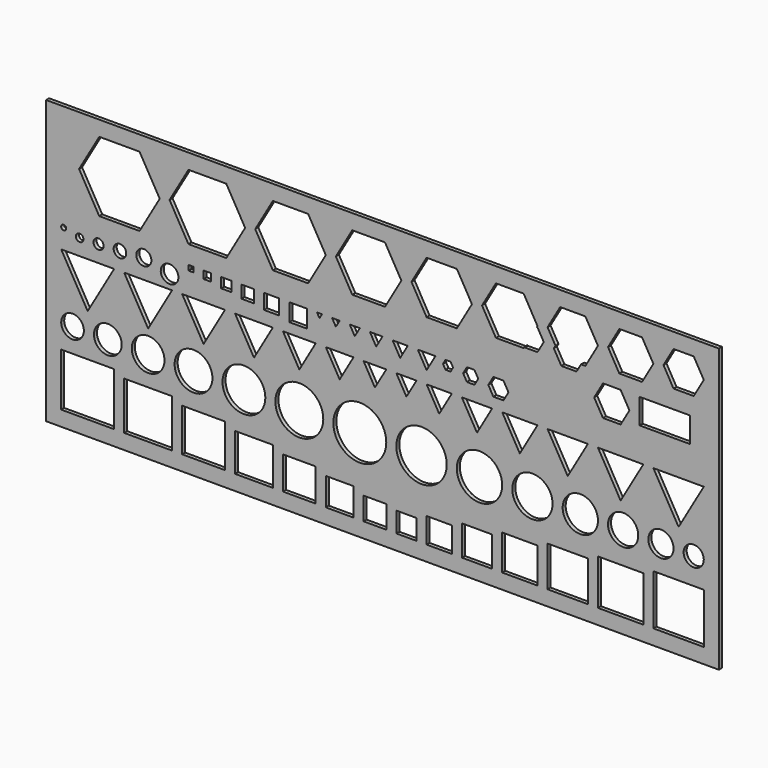
from build123d import *

# Parameters (mm, degrees)
F0_R     = 1
F0_W     = 21
F0_H     = 21
F0_W_2   = 19
F0_H_2   = 19
F0_W_3   = 17
F0_H_3   = 17
F0_W_4   = 15
F0_H_4   = 15
F0_W_5   = 13
F0_H_5   = 13
F0_W_6   = 11
F0_H_6   = 11
F0_W_7   = 9
F0_H_7   = 9
F0_R_2   = 4.5
F0_R_3   = 5.5
F0_R_4   = 6.5
F0_R_5   = 7.5
F0_R_6   = 8.5
F0_R_7   = 9.5
F0_R_8   = 10.5
F0_W_8   = 8
F0_H_8   = 8
F0_W_9   = 10
F0_H_9   = 10
F0_W_10  = 12
F0_H_10  = 12
F0_W_11  = 14
F0_H_11  = 14
F0_W_12  = 16
F0_H_12  = 16
F0_W_13  = 18
F0_H_13  = 18
F0_W_14  = 20
F0_H_14  = 20
F0_R_9   = 10
F0_R_10  = 9
F0_R_11  = 8
F0_R_12  = 7
F0_R_13  = 6
F0_R_14  = 5
F0_R_15  = 4
F0_W_15  = 2
F0_H_15  = 2
F0_W_16  = 3
F0_H_16  = 3
F0_W_17  = 6
F0_H_17  = 6
F0_W_18  = 7
F0_H_18  = 7
F0_W_19  = 4
F0_H_19  = 4
F0_W_20  = 5
F0_H_20  = 5
F1_DEPTH = 1.5


with BuildPart() as f1:
    # F0 (on Front) → F1 (new body)
    with BuildSketch(Plane.XZ):
        with Locations((-132.000002, 63.920423)):
            Circle(F0_R)
        Polygon((128, -6), (128, 66.995329), (128, 106.231951), (-139, 106.231951), (-139, -6), align=None)
        with Locations((-122.5, 10.5)):
            Rectangle(F0_W, F0_H, mode=Mode.SUBTRACT)
        with Locations((-98.5, 9.5)):
            Rectangle(F0_W_2, F0_H_2, mode=Mode.SUBTRACT)
        with Locations((-76.5, 8.5)):
            Rectangle(F0_W_3, F0_H_3, mode=Mode.SUBTRACT)
        with Locations((-56.5, 7.5)):
            Rectangle(F0_W_4, F0_H_4, mode=Mode.SUBTRACT)
        with Locations((-38.5, 6.5)):
            Rectangle(F0_W_5, F0_H_5, mode=Mode.SUBTRACT)
        with Locations((-22.5, 5.5)):
            Rectangle(F0_W_6, F0_H_6, mode=Mode.SUBTRACT)
        with Locations((-8.5, 4.5)):
            Rectangle(F0_W_7, F0_H_7, mode=Mode.SUBTRACT)
        with Locations((-128.5, 30.5)):
            Circle(F0_R_2, mode=Mode.SUBTRACT)
        with Locations((-114.5, 30.5)):
            Circle(F0_R_3, mode=Mode.SUBTRACT)
        with Locations((-98.5, 30.5)):
            Circle(F0_R_4, mode=Mode.SUBTRACT)
        with Locations((-80.5, 30.5)):
            Circle(F0_R_5, mode=Mode.SUBTRACT)
        Polygon((-122.5, 37.811581), (-133, 55.998115), (-112, 55.998115), align=None, mode=Mode.SUBTRACT)
        Polygon((-98.5, 39.543632), (-108, 55.998115), (-89, 55.998115), align=None, mode=Mode.SUBTRACT)
        Polygon((-76.5, 41.275683), (-85, 55.998115), (-68, 55.998115), align=None, mode=Mode.SUBTRACT)
        with Locations((-60.5, 30.5)):
            Circle(F0_R_6, mode=Mode.SUBTRACT)
        with Locations((-38.5, 30.5)):
            Circle(F0_R_7, mode=Mode.SUBTRACT)
        with Locations((-14.5, 30.5)):
            Circle(F0_R_8, mode=Mode.SUBTRACT)
        Polygon((-56.5, 43.007733), (-64, 55.998115), (-49, 55.998115), align=None, mode=Mode.SUBTRACT)
        with Locations((4, 4)):
            Rectangle(F0_W_8, F0_H_8, mode=Mode.SUBTRACT)
        with Locations((17, 5)):
            Rectangle(F0_W_9, F0_H_9, mode=Mode.SUBTRACT)
        with Locations((32, 6)):
            Rectangle(F0_W_10, F0_H_10, mode=Mode.SUBTRACT)
        with Locations((49, 7)):
            Rectangle(F0_W_11, F0_H_11, mode=Mode.SUBTRACT)
        with Locations((68, 8)):
            Rectangle(F0_W_12, F0_H_12, mode=Mode.SUBTRACT)
        with Locations((89, 9)):
            Rectangle(F0_W_13, F0_H_13, mode=Mode.SUBTRACT)
        with Locations((112, 10)):
            Rectangle(F0_W_14, F0_H_14, mode=Mode.SUBTRACT)
        with Locations((10, 30.5)):
            Circle(F0_R_9, mode=Mode.SUBTRACT)
        with Locations((33, 30.5)):
            Circle(F0_R_10, mode=Mode.SUBTRACT)
        with Locations((54, 30.5)):
            Circle(F0_R_11, mode=Mode.SUBTRACT)
        Polygon((49, 43.873759), (42, 55.998115), (56, 55.998115), align=None, mode=Mode.SUBTRACT)
        with Locations((73, 30.5)):
            Circle(F0_R_12, mode=Mode.SUBTRACT)
        with Locations((90, 30.5)):
            Circle(F0_R_13, mode=Mode.SUBTRACT)
        with Locations((105, 30.5)):
            Circle(F0_R_14, mode=Mode.SUBTRACT)
        with Locations((118, 30.5)):
            Circle(F0_R_15, mode=Mode.SUBTRACT)
        Polygon((68, 42.141708), (60, 55.998115), (76, 55.998115), align=None, mode=Mode.SUBTRACT)
        Polygon((89, 40.409657), (80, 55.998115), (98, 55.998115), align=None, mode=Mode.SUBTRACT)
        Polygon((112, 38.677606), (102, 55.998115), (122, 55.998115), align=None, mode=Mode.SUBTRACT)
        with Locations((-132.000002, 63.920423)):
            Circle(F0_R, mode=Mode.SUBTRACT)
        with BuildLine():
            ThreePointArc((-124.175447, 62.420423), (-126.736107, 61.359763), (-125.675447, 63.920423))
            ThreePointArc((-125.675447, 63.920423), (-124.614787, 63.481083), (-124.175447, 62.420423))
        make_face(mode=Mode.SUBTRACT)
        with BuildLine():
            ThreePointArc((-116.179247, 62.659131), (-118.848469, 60.774419), (-119.731389, 63.920423))
            ThreePointArc((-119.731389, 63.920423), (-118.179247, 64.659131), (-116.627105, 63.920423))
            ThreePointArc((-116.627105, 63.920423), (-116.294534, 63.328354), (-116.179247, 62.659131))
        make_face(mode=Mode.SUBTRACT)
        with BuildLine():
            ThreePointArc((-107.185059, 62.973398), (-110.167647, 60.520419), (-111.998745, 63.920423))
            ThreePointArc((-111.998745, 63.920423), (-109.685059, 65.473398), (-107.371372, 63.920423))
            ThreePointArc((-107.371372, 63.920423), (-107.232079, 63.455987), (-107.185059, 62.973398))
        make_face(mode=Mode.SUBTRACT)
        with BuildLine():
            ThreePointArc((-97.218074, 63.764731), (-100.295946, 60.765742), (-103.214031, 63.920423))
            ThreePointArc((-103.214031, 63.920423), (-100.218074, 66.764731), (-97.222117, 63.920423))
            ThreePointArc((-97.222117, 63.920423), (-97.219085, 63.842603), (-97.218074, 63.764731))
        make_face(mode=Mode.SUBTRACT)
        with BuildLine():
            ThreePointArc((-86.498777, 61.353099), (-91.399506, 58.145615), (-92.377611, 63.920423))
            ThreePointArc((-92.377611, 63.920423), (-89.998777, 64.853099), (-87.619943, 63.920423))
            ThreePointArc((-87.619943, 63.920423), (-86.791292, 62.753828), (-86.498777, 61.353099))
        make_face(mode=Mode.SUBTRACT)
        with Locations((-81.498777, 65.995329)):
            Rectangle(F0_W_15, F0_H_15, mode=Mode.SUBTRACT)
        with Locations((-74.998777, 65.495329)):
            Rectangle(F0_W_16, F0_H_16, mode=Mode.SUBTRACT)
        with Locations((-49.498777, 63.995329)):
            Rectangle(F0_W_17, F0_H_17, mode=Mode.SUBTRACT)
        with Locations((-38.998777, 63.495329)):
            Rectangle(F0_W_18, F0_H_18, mode=Mode.SUBTRACT)
        Polygon((-38.5, 44.739784), (-45, 55.998115), (-32, 55.998115), align=None, mode=Mode.SUBTRACT)
        Polygon((-22.5, 46.471835), (-28, 55.998115), (-17, 55.998115), align=None, mode=Mode.SUBTRACT)
        Polygon((-8.5, 48.203886), (-13, 55.998115), (-4, 55.998115), align=None, mode=Mode.SUBTRACT)
        with Locations((-67.498777, 64.995329)):
            Rectangle(F0_W_19, F0_H_19, mode=Mode.SUBTRACT)
        with Locations((-58.998777, 64.495329)):
            Rectangle(F0_W_20, F0_H_20, mode=Mode.SUBTRACT)
        Polygon((-23.998777, 64.397253), (-25.498777, 66.995329), (-22.498777, 66.995329), align=None, mode=Mode.SUBTRACT)
        Polygon((-30.498777, 65.263278), (-31.498777, 66.995329), (-29.498777, 66.995329), align=None, mode=Mode.SUBTRACT)
        Polygon((-16.498777, 63.531228), (-18.498777, 66.995329), (-14.498777, 66.995329), align=None, mode=Mode.SUBTRACT)
        Polygon((-7.998777, 62.665202), (-10.498777, 66.995329), (-5.498777, 66.995329), align=None, mode=Mode.SUBTRACT)
        Polygon((-125.905125, 86.375544), (-117.905125, 100.231951), (-101.905125, 100.231951), (-93.905125, 86.375544), (-101.905125, 72.519138), (-117.905125, 72.519138), align=None, mode=Mode.SUBTRACT)
        Polygon((-90, 87.24157), (-82.5, 100.231951), (-67.5, 100.231951), (-60, 87.24157), (-67.5, 74.251189), (-82.5, 74.251189), align=None, mode=Mode.SUBTRACT)
        Polygon((-56, 88.119686), (-49, 100.244041), (-35, 100.244041), (-28, 88.119686), (-35, 75.99533), (-49, 75.99533), align=None, mode=Mode.SUBTRACT)
        Polygon((-24, 88.97362), (-17.5, 100.231951), (-4.5, 100.231951), (2, 88.97362), (-4.5, 77.71529), (-17.5, 77.71529), align=None, mode=Mode.SUBTRACT)
        Polygon((4, 49.069911), (0, 55.998115), (8, 55.998115), align=None, mode=Mode.SUBTRACT)
        Polygon((17, 47.33786), (12, 55.998115), (22, 55.998115), align=None, mode=Mode.SUBTRACT)
        Polygon((12.001223, 60.933151), (8.501223, 66.995329), (15.501223, 66.995329), align=None, mode=Mode.SUBTRACT)
        Polygon((32, 45.60581), (26, 55.998115), (38, 55.998115), align=None, mode=Mode.SUBTRACT)
        Polygon((36.501223, 63.756698), (38.371048, 66.995329), (38.501223, 67.2208), (42.501223, 67.2208), (42.631398, 66.995329), (44.501223, 63.756698), (42.501223, 60.292596), (38.501223, 60.292596), align=None, mode=Mode.SUBTRACT)
        Polygon((1.501223, 61.799177), (-1.498777, 66.995329), (4.501223, 66.995329), align=None, mode=Mode.SUBTRACT)
        Polygon((18.501223, 65.263278), (19.501223, 66.995329), (21.501223, 66.995329), (22.501223, 65.263278), (21.501223, 63.531228), (19.501223, 63.531228), align=None, mode=Mode.SUBTRACT)
        Polygon((26.501223, 64.605594), (27.880937, 66.995329), (28.001223, 67.20367), (31.001223, 67.20367), (31.121509, 66.995329), (32.501223, 64.605594), (31.001223, 62.007517), (28.001223, 62.007517), align=None, mode=Mode.SUBTRACT)
        Polygon((89.001223, 66.995329), (82.001223, 66.995329), (78.501223, 73.057507), (82.001223, 79.119685), (89.001223, 79.119685), (92.501223, 73.057507), align=None, mode=Mode.SUBTRACT)
        with Locations((106.501223, 74.119685)):
            Rectangle(F0_W_14, F0_H_9, mode=Mode.SUBTRACT)
        Polygon((6, 89.839646), (12, 100.231951), (24, 100.231951), (30, 89.839646), (24, 79.447341), (12, 79.447341), align=None, mode=Mode.SUBTRACT)
        Polygon((56, 90.705671), (55.707546, 90.199127), (56.001223, 90.199127), (58.501223, 85.869), (56.001223, 81.538873), (51.001223, 81.538873), (50.854385, 81.793204), (50.5, 81.179392), (39.5, 81.179392), (34, 90.705671), (39.5, 100.231951), (50.5, 100.231951), align=None, mode=Mode.SUBTRACT)
        Polygon((62.501223, 85.002974), (63.146838, 86.121213), (60, 91.571697), (65, 100.231951), (75, 100.231951), (80, 91.571697), (75, 82.911443), (73.293677, 82.911443), (71.501223, 79.806822), (65.501223, 79.806822), align=None, mode=Mode.SUBTRACT)
        Polygon((84, 92.437722), (88.5, 100.231951), (97.5, 100.231951), (102, 92.437722), (97.5, 84.643493), (88.5, 84.643493), align=None, mode=Mode.SUBTRACT)
        Polygon((122, 93.303747), (118, 86.375544), (110, 86.375544), (106, 93.303747), (110, 100.231951), (118, 100.231951), align=None, mode=Mode.SUBTRACT)
    extrude(amount=F1_DEPTH)


solid = f1.part
